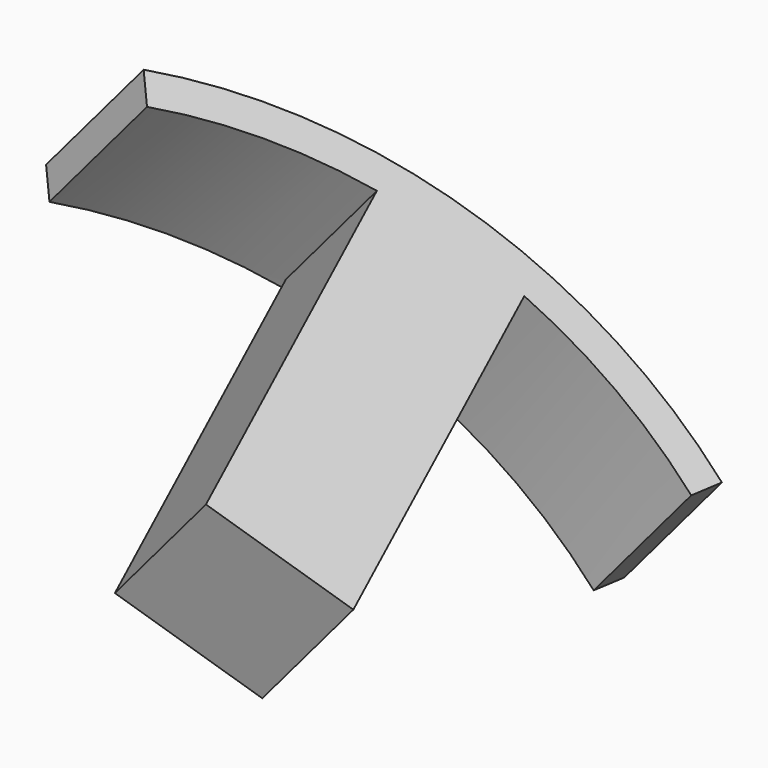
from build123d import *

# Parameters (mm, degrees)
EXTRUDE_DEPTH               = 5
EXTRUDE001_DEPTH            = 5
THICKNESS_T                 = 1
BOX_W                       = 12
BOX_H                       = 31
BOX_DEPTH                   = 15
BOX001_W                    = 13
BOX001_H                    = 34
BOX001_DEPTH                = 14
CYLINDER001_W               = 48
CYLINDER001_H               = 15
CYLINDER001_ANGLE           = 60
CYLINDER001_PLACEMENT_ANGLE = 60
CYLINDER_W                  = 51
CYLINDER_H                  = 15
CYLINDER_ANGLE              = 60
CYLINDER_PLACEMENT_ANGLE    = 60
CUT002_ROLL_ANGLE           = 157.1428266503
CUT002_PITCH_ANGLE          = -35.3174864898
CUT002_PLACEMENT_ANGLE      = -150.7827400319


with BuildPart() as extrude_body:
    with BuildSketch(Plane(origin=(8.5, 45, 6), x_dir=(1, 0, 0), z_dir=(0, 1, 0))):
        with BuildLine():
            Line((5, 4), (-5, 4))
            Line((-5, 4), (-5, -3.1421356237))
            ThreePointArc((-5, -3.1421356237), (-2.5365296809, -3.7839783948), (0, -4))
            ThreePointArc((0, -4), (2.5365296809, -3.7839783948), (5, -3.1421356237))
            Line((5, -3.1421356237), (5, 4))
        make_face()
    extrude(amount=EXTRUDE_DEPTH)


with BuildPart() as extrude001:
    with BuildSketch(Plane(origin=(8.5, 45, 6), x_dir=(1, 0, 0), z_dir=(0, 1, 0))):
        with BuildLine():
            Line((5, 4), (-5, 4))
            Line((-5, 4), (-5, -3.1421356237))
            ThreePointArc((-5, -3.1421356237), (-2.5365296809, -3.7839783948), (0, -4))
            ThreePointArc((0, -4), (2.5365296809, -3.7839783948), (5, -3.1421356237))
            Line((5, -3.1421356237), (5, 4))
        make_face()
    extrude(amount=EXTRUDE001_DEPTH)


with BuildPart() as bolt_bottle_side_opening:
    # Thickness base: copy of Extrude body
    add(extrude_body.part)

    # Thickness
    thickness_openings = [bolt_bottle_side_opening.faces().sort_by_distance(p)[0] for p in [
        (8.5, 50, 5.862901),
    ]]
    offset(amount=THICKNESS_T, openings=thickness_openings)

    # Fusion: union Extrude body, Extrude001
    add(extrude_body.part)
    add(extrude001.part)


with BuildPart() as bolt_bottle_side_opening_1:
    # Fusion placement: moved
    add(bolt_bottle_side_opening.part.moved(Location((0, -7, 1))))


with BuildPart() as pullbay:
    # Box → Box (new body)
    with BuildSketch(Plane(origin=(2.5, 7, 2), x_dir=(1, 0, 0), z_dir=(0, 0, 1))):
        with Locations((6, 15.5)):
            Rectangle(BOX_W, BOX_H)
    extrude(amount=BOX_DEPTH)


with BuildPart() as cut_bay_from_case:
    # Box001 → Box001 (new body)
    with BuildSketch(Plane(origin=(2, 6, 0), x_dir=(1, 0, 0), z_dir=(0, 0, 1))):
        with Locations((6.5, 17)):
            Rectangle(BOX001_W, BOX001_H)
    extrude(amount=BOX001_DEPTH)

    # Cut001: cut pullBay
    add(pullbay.part, mode=Mode.SUBTRACT)


with BuildPart() as bottle_wall001:
    # Cylinder001 → Cylinder001 (revolve)
    with BuildSketch(Plane.XZ):
        with Locations((24, 7.5)):
            Rectangle(CYLINDER001_W, CYLINDER001_H)
    revolve(axis=Axis((0, 0, 0), (0, 0, 1)), revolution_arc=CYLINDER001_ANGLE)


with BuildPart() as bottle_wall001_1:
    # Cylinder001 placement: moved
    add(bottle_wall001.part.moved(Location((8.5, -7, 0))).rotate(Axis((8.5, -7, 0), (0, 0, 1)), CYLINDER001_PLACEMENT_ANGLE))


with BuildPart() as hole_cut_out_of_case:
    # Cylinder → Cylinder (revolve)
    with BuildSketch(Plane.XZ):
        with Locations((25.5, 7.5)):
            Rectangle(CYLINDER_W, CYLINDER_H)
    revolve(axis=Axis((0, 0, 0), (0, 0, 1)), revolution_arc=CYLINDER_ANGLE)


with BuildPart() as hole_cut_out_of_case_1:
    # Cylinder placement: moved
    add(hole_cut_out_of_case.part.moved(Location((8.5, -7, 0))).rotate(Axis((8.5, -7, 0), (0, 0, 1)), CYLINDER_PLACEMENT_ANGLE))

    # Cut: cut bottle_wall001
    add(bottle_wall001_1.part, mode=Mode.SUBTRACT)


with BuildPart() as hole_cut_out_of_case_2:
    # Cut placement: moved
    add(hole_cut_out_of_case_1.part.moved(Location((0, -2, 0))))

    # Fusion001: union cut bay from case
    add(cut_bay_from_case.part)

    # Cut002: cut bolt_bottle_side_opening
    add(bolt_bottle_side_opening_1.part, mode=Mode.SUBTRACT)


with BuildPart() as hole_cut_out_of_case_3:
    # Cut002 roll: moved
    add(hole_cut_out_of_case_2.part.rotate(Axis((0, 0, 0), (1, 0, 0)), CUT002_ROLL_ANGLE))


with BuildPart() as hole_cut_out_of_case_4:
    # Cut002 pitch: moved
    add(hole_cut_out_of_case_3.part.rotate(Axis((0, 0, 0), (0, 1, 0)), CUT002_PITCH_ANGLE))


with BuildPart() as hole_cut_out_of_case_5:
    # Cut002 placement: moved
    add(hole_cut_out_of_case_4.part.rotate(Axis((0, 0, 0), (0, 0, 1)), CUT002_PLACEMENT_ANGLE))


solid = hole_cut_out_of_case_5.part
